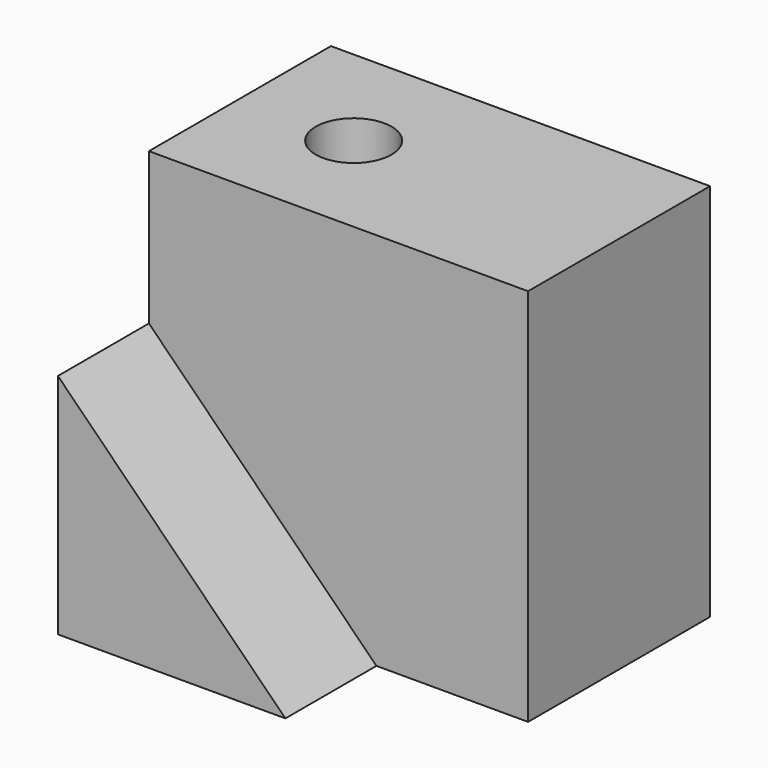
from build123d import *

# Parameters (mm, degrees)
F1_DEPTH = 15
F3_W     = 50
F3_H     = 50
F4_DEPTH = 30
F5_R     = 5
F6_DEPTH = 50


with BuildPart() as f1:
    # F0 (on Front) → F1 (new body)
    with BuildSketch(Plane.XZ):
        Polygon((0, 30), (0, 0), (30, 0), align=None)
    extrude(amount=-F1_DEPTH)

    # F3 (on offset) → F4 (join)
    with BuildSketch(Plane.XZ.offset(-15)):
        with Locations((25, 25)):
            Rectangle(F3_W, F3_H)
    extrude(amount=-F4_DEPTH)

    # F5 (on face) → F6 (cut, through all)
    with BuildSketch(Plane.XY.offset(50)):
        with Locations((15, 30)):
            Circle(F5_R)
    extrude(amount=-F6_DEPTH, mode=Mode.SUBTRACT)


solid = f1.part
